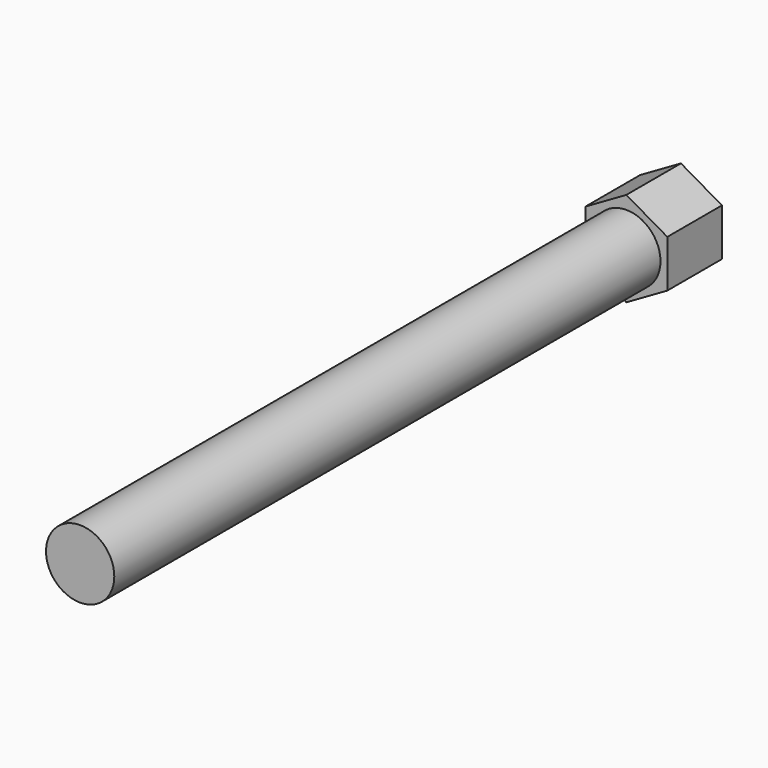
from build123d import *

# Parameters (mm, degrees)
F0_R      = 3.175
F1_DEPTH  = 63.5
F1_FACE_R = 3.175
F2_DEPTH  = 6.35


with BuildPart() as f1:
    # F0 (on Front) → F1 (new body)
    with BuildSketch(Plane.XZ):
        Circle(F0_R)
    extrude(amount=F1_DEPTH)

    # F0 (on Front) + F1_face (on face) → F2 (join)
    with BuildSketch(Plane.XZ):
        Polygon((-3.81, 2.1997045256), (-3.81, -2.1997045256), (0, -4.3994090512), (3.81, -2.1997045256), (3.81, 2.1997045256), (0, 4.3994090512), align=None)
        Circle(F0_R, mode=Mode.SUBTRACT)
    with BuildSketch(Plane(origin=(0, 0, 0), x_dir=(1, 0, 0), z_dir=(0, 1, 0))):
        Circle(F1_FACE_R)
    extrude(amount=-F2_DEPTH, dir=(0, -1, 0))


solid = f1.part
